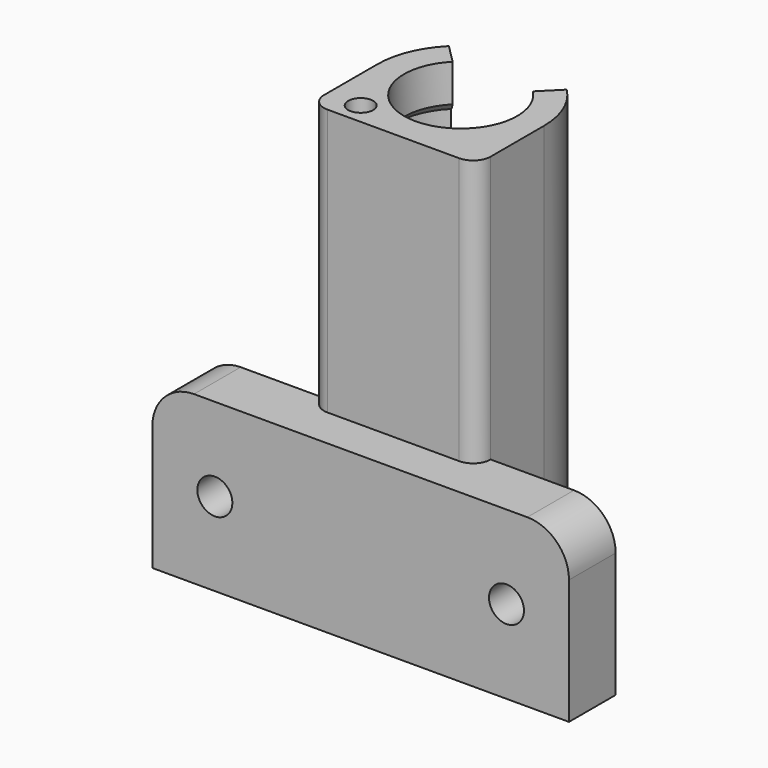
from build123d import *

# Parameters (mm, degrees)
CYLINDER003_R     = 1.5
CYLINDER003_DEPTH = 8
CYLINDER002_R     = 8
CYLINDER002_DEPTH = 3
CYLINDER001_R     = 8
CYLINDER001_DEPTH = 3
CYLINDER_R        = 8
CYLINDER_DEPTH    = 5
PAD_DEPTH         = 52
SKETCH005_R       = 6.8
POCKET_DEPTH      = 25
SKETCH006_R       = 6.7
POCKET001_DEPTH   = 25
PAD002_DEPTH      = 32
SKETCH010_R       = 1.5
POCKET004_DEPTH   = 8
PAD001_DEPTH      = 20
SKETCH008_R       = 2.1
POCKET002_DEPTH   = 7
SKETCH009_R       = 3.6
POCKET003_DEPTH   = 2
FILLET_R          = 5
FILLET001_R       = 2.1
CHAMFER_SIZE      = 1


with BuildPart() as zylinder003:
    # Cylinder003 → Cylinder003 (new body)
    with BuildSketch(Plane(origin=(-6, -7.5, 0), x_dir=(1, 0, 0), z_dir=(0, 0, 1))):
        Circle(CYLINDER003_R)
    extrude(amount=CYLINDER003_DEPTH)


with BuildPart() as zylinder002:
    # Cylinder002 → Cylinder002 (new body)
    with BuildSketch(Plane.XY.offset(43.5)):
        Circle(CYLINDER002_R)
    extrude(amount=CYLINDER002_DEPTH)


with BuildPart() as zylinder001:
    # Cylinder001 → Cylinder001 (new body)
    with BuildSketch(Plane.XY.offset(33.5)):
        Circle(CYLINDER001_R)
    extrude(amount=CYLINDER001_DEPTH)


with BuildPart() as zylinder:
    # Cylinder → Cylinder (new body)
    with BuildSketch(Plane.XY.offset(10)):
        Circle(CYLINDER_R)
    extrude(amount=CYLINDER_DEPTH)


with BuildPart() as pocket004:
    # Sketch → Pad (new body)
    with BuildSketch(Plane.XY):
        with BuildLine():
            ThreePointArc((-7.071068, 7.071068), (0, -10), (7.071068, 7.071068))
            Line((7.071068, 7.071068), (4.242641, 4.242641))
            ThreePointArc((-4.242641, 4.242641), (0, -6), (4.242641, 4.242641))
            Line((-4.242641, 4.242641), (-7.071068, 7.071068))
        make_face()
    extrude(amount=PAD_DEPTH)

    # Sketch005 → Pocket (cut)
    with BuildSketch(Plane.XY.offset(52)):
        Circle(SKETCH005_R)
    extrude(amount=-POCKET_DEPTH, mode=Mode.SUBTRACT)

    # Sketch006 → Pocket001 (cut)
    with BuildSketch(Plane(origin=(0, 0, 0), x_dir=(1, 0, 0), z_dir=(0, 0, -1))):
        Circle(SKETCH006_R)
    extrude(amount=-POCKET001_DEPTH, mode=Mode.SUBTRACT)

    # Sketch007 → Pad002 (new body)
    with BuildSketch(Plane.XY.offset(52)):
        with BuildLine():
            ThreePointArc((-10, 0), (0, -10), (10, 0))
            Line((10, 0), (10, -10.1))
            Line((-10, -10.1), (10, -10.1))
            Line((-10, 0), (-10, -10.1))
        make_face()
    extrude(amount=-PAD002_DEPTH)

    # Cut: cut Zylinder
    add(zylinder.part, mode=Mode.SUBTRACT)

    # Cut001: cut Zylinder001
    add(zylinder001.part, mode=Mode.SUBTRACT)

    # Cut002: cut Zylinder002
    add(zylinder002.part, mode=Mode.SUBTRACT)

    # Sketch010 → Pocket004 (cut)
    with BuildSketch(Plane.XY.offset(52)):
        with Locations((-6, -7.493998)):
            Circle(SKETCH010_R)
    extrude(amount=-POCKET004_DEPTH, mode=Mode.SUBTRACT)


with BuildPart() as chamfer_body:
    # Sketch003 → Pad001 (new body)
    with BuildSketch(Plane.XY):
        with BuildLine():
            ThreePointArc((-10, 0), (0, -10), (10, 0))
            Line((10, 0), (10, -8))
            Line((10, -8), (25, -8))
            Line((25, -8), (25, -15))
            Line((-25, -15), (25, -15))
            Line((-25, -8), (-25, -15))
            Line((-10, -8), (-25, -8))
            Line((-10, 0), (-10, -8))
        make_face()
    extrude(amount=PAD001_DEPTH)

    # Sketch008 → Pocket002 (cut)
    with BuildSketch(Plane.XZ.offset(15)):
        with Locations((-17.5, 10)):
            Circle(SKETCH008_R)
        with Locations((17.5, 10)):
            Circle(SKETCH008_R)
    extrude(amount=-POCKET002_DEPTH, mode=Mode.SUBTRACT)

    # Sketch009 → Pocket003 (cut)
    with BuildSketch(Plane(origin=(0, -8, 0), x_dir=(-1, 0, 0), z_dir=(0, 1, 0))):
        with Locations((-17.5, 10)):
            Circle(SKETCH009_R)
        with Locations((17.5, 10)):
            Circle(SKETCH009_R)
    extrude(amount=-POCKET003_DEPTH, mode=Mode.SUBTRACT)

    # Fusion: union Pocket004
    add(pocket004.part)

    # Cut003: cut Zylinder003
    add(zylinder003.part, mode=Mode.SUBTRACT)

    # Fillet
    fillet_edges = [chamfer_body.edges().sort_by_distance(p)[0] for p in [
        (-25, -11.5, 20),
        (25, -11.5, 20),
    ]]
    fillet(fillet_edges, radius=FILLET_R)

    # Fillet001
    fillet001_edges = [chamfer_body.edges().sort_by_distance(p)[0] for p in [
        (10, -10.1, 36),
        (-10, -10.1, 36),
    ]]
    fillet(fillet001_edges, radius=FILLET001_R)

    # Chamfer
    chamfer_edges = [chamfer_body.edges().sort_by_distance(p)[0] for p in [
        (-2.563979, -6.189993, 15),
        (-2.563979, -6.189993, 10),
        (-2.602247, -6.282381, 33.5),
        (-2.602247, -6.282381, 36.5),
        (-2.602247, -6.282381, 43.5),
        (-2.602247, -6.282381, 46.5),
    ]]
    chamfer(chamfer_edges, length=CHAMFER_SIZE)


solid = chamfer_body.part
